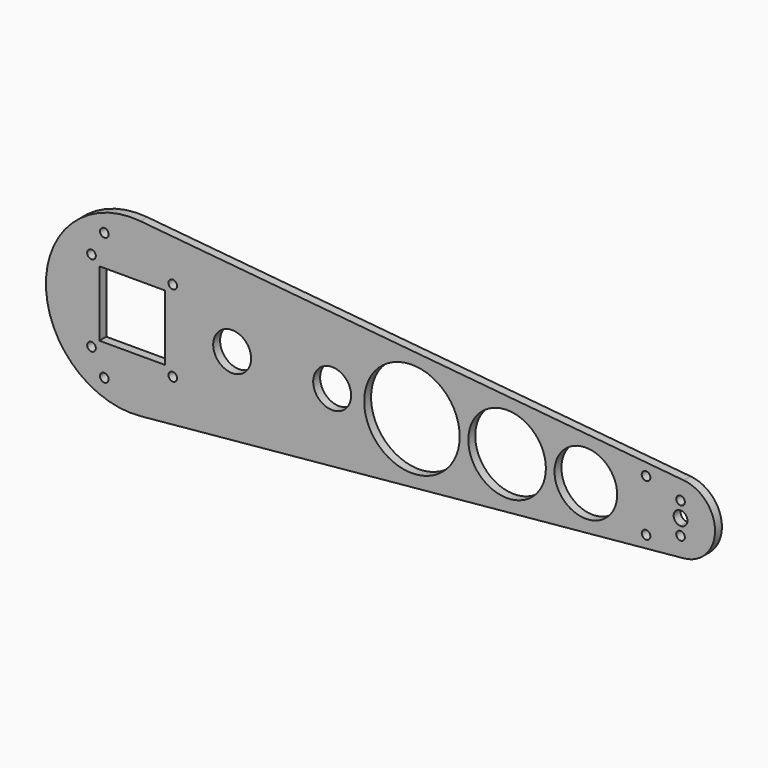
from build123d import *

# Parameters (mm, degrees)
F0_R     = 2.5
F0_W     = 38
F0_H     = 38
F0_R_2   = 11
F0_R_3   = 27.6938325479
F0_R_4   = 22.48799935
F0_R_5   = 18.1797236
F1_DEPTH = 5


with BuildPart() as f1:
    # F0 (on Front) → F1 (new body)
    with BuildSketch(Plane.XZ):
        with BuildLine():
            Line((193.4329784677, 19.9108014464), (-121.736832853, 49.7770036161))
            ThreePointArc((-121.736832853, 49.7770036161), (-176.4538139851, 0), (-121.736832853, -49.7770036161))
            Line((-121.736832853, -49.7770036161), (193.4329784677, -19.9108014464))
            ThreePointArc((193.4329784677, -19.9108014464), (211.5461860149, 0), (193.4329784677, 19.9108014464))
        make_face()
        with Locations((-142.5848156214, -37)):
            Circle(F0_R, mode=Mode.SUBTRACT)
        with Locations((-150.0238139851, -23.57)):
            Circle(F0_R, mode=Mode.SUBTRACT)
        with Locations((-102.8838139851, -23.57)):
            Circle(F0_R, mode=Mode.SUBTRACT)
        with Locations((171.5461860149, -15)):
            Circle(F0_R, mode=Mode.SUBTRACT)
        with BuildLine():
            ThreePointArc((194.0461860149, -9), (189.7784190619, -10.767766953), (191.5461860149, -6.5))
            ThreePointArc((191.5461860149, -6.5), (193.3139529678, -7.232233047), (194.0461860149, -9))
        make_face(mode=Mode.SUBTRACT)
        with Locations((-126.4538139851, 0)):
            Rectangle(F0_W, F0_H, mode=Mode.SUBTRACT)
        with Locations((-150.0238139851, 23.57)):
            Circle(F0_R, mode=Mode.SUBTRACT)
        with Locations((-102.8838139851, 23.57)):
            Circle(F0_R, mode=Mode.SUBTRACT)
        with Locations((-68.4538139851, 0.469701714)):
            Circle(F0_R_2, mode=Mode.SUBTRACT)
        with Locations((-10.4538139851, 0.469701714)):
            Circle(F0_R_2, mode=Mode.SUBTRACT)
        with Locations((-142.5848156214, 37)):
            Circle(F0_R, mode=Mode.SUBTRACT)
        with Locations((35.7915610075, 0)):
            Circle(F0_R_3, mode=Mode.SUBTRACT)
        with Locations((90.9733929053, 0)):
            Circle(F0_R_4, mode=Mode.SUBTRACT)
        with Locations((136.6411158552, 0)):
            Circle(F0_R_5, mode=Mode.SUBTRACT)
        with BuildLine():
            ThreePointArc((191.5461860149, 4), (194.3746131396, 2.8284271247), (195.5461860149, 0))
            ThreePointArc((195.5461860149, 0), (194.3746131396, -2.8284271247), (191.5461860149, -4))
            ThreePointArc((191.5461860149, -4), (187.5461860149, 0), (191.5461860149, 4))
        make_face(mode=Mode.SUBTRACT)
        with BuildLine():
            ThreePointArc((194.0461860149, 9), (193.3139529678, 7.232233047), (191.5461860149, 6.5))
            ThreePointArc((191.5461860149, 6.5), (189.7784190619, 10.767766953), (194.0461860149, 9))
        make_face(mode=Mode.SUBTRACT)
        with Locations((171.5461860149, 15)):
            Circle(F0_R, mode=Mode.SUBTRACT)
    extrude(amount=F1_DEPTH)


solid = f1.part
